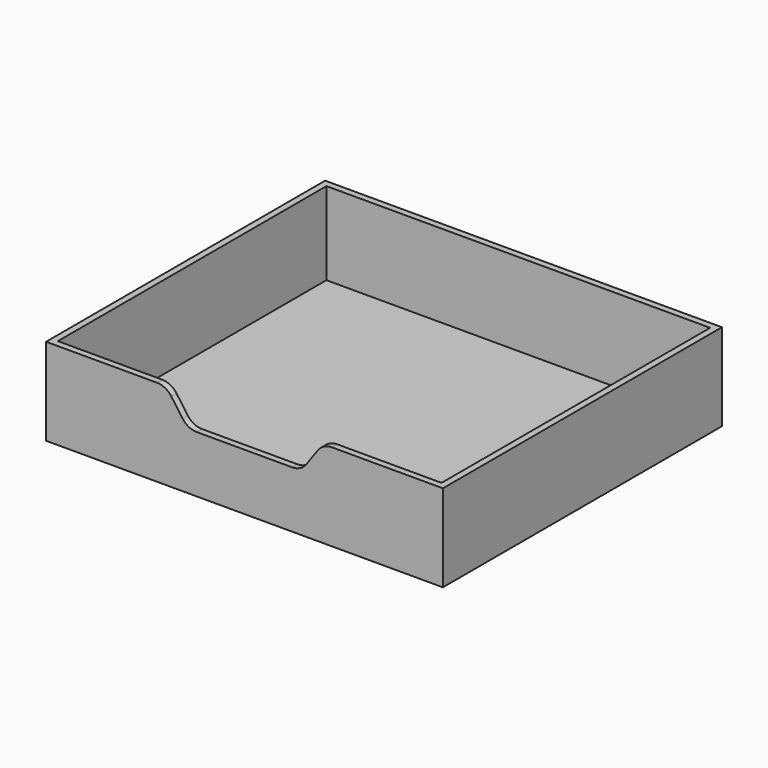
from build123d import *

# Parameters (mm, degrees)
F0_W     = 577.85
F0_H     = 508
F1_DEPTH = 127
F2_W     = 558.8
F2_H     = 488.95
F3_DEPTH = 120.65
F5_DEPTH = 9.525
F6_R     = 25.4


with BuildPart() as f1:
    # F0 (on Top) → F1 (new body)
    with BuildSketch(Plane.XY):
        with Locations((288.925, -254)):
            Rectangle(F0_W, F0_H)
    extrude(amount=F1_DEPTH)

    # F2 (on face) → F3 (cut)
    with BuildSketch(Plane.XY.offset(127)):
        with Locations((288.925, -254)):
            Rectangle(F2_W, F2_H)
    extrude(amount=-F3_DEPTH, mode=Mode.SUBTRACT)

    # F4 (on face) → F5 (cut, through all)
    with BuildSketch(Plane.XZ.offset(508)):
        Polygon((403.225, 127), (174.625, 127), (206.375, 82.55), (371.475, 82.55), align=None)
    extrude(amount=-F5_DEPTH, mode=Mode.SUBTRACT)

    # F6
    f6_edges = [f1.edges().sort_by_distance(p)[0] for p in [
        (403.225, -503.2375, 127),
        (371.475, -503.2375, 82.55),
        (174.625, -503.2375, 127),
        (206.375, -503.2375, 82.55),
    ]]
    fillet(f6_edges, radius=F6_R)


solid = f1.part
